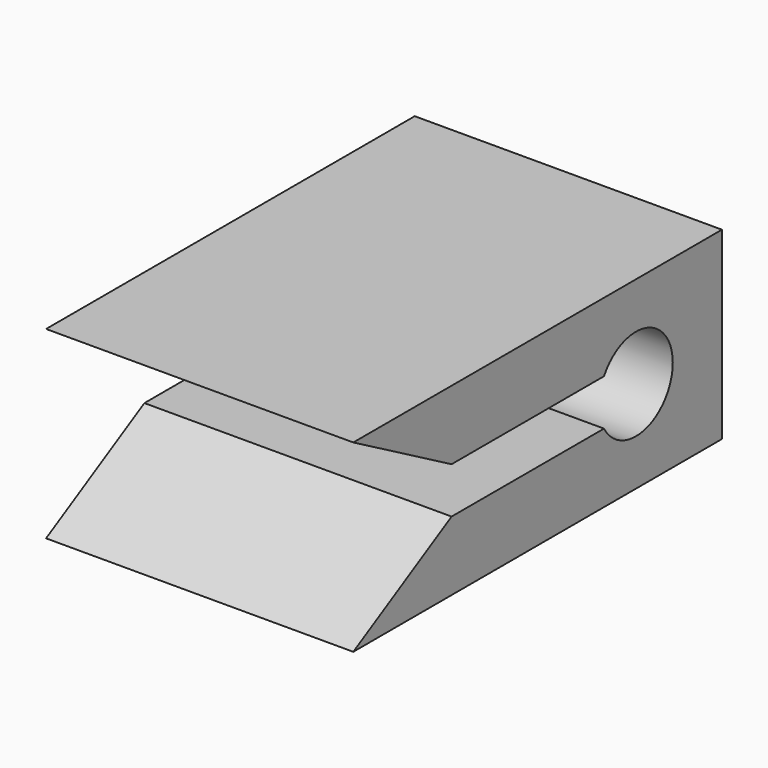
from build123d import *

# Parameters (mm, degrees)
PAD_DEPTH = 5


with BuildPart() as part:
    # Sketch → Pad (new body, symmetric)
    with BuildSketch(Plane.YZ):
        with BuildLine():
            ThreePointArc((-1.299038, -0.75), (1.5, 0), (-1.299038, 0.75))
            Line((-1.299038, 0.75), (-7.5, 0.75))
            Line((-7.5, 0.75), (-11.5, 3))
            Line((-11.5, 3), (3.5, 3))
            Line((3.5, -3), (3.5, 3))
            Line((-11.5, -3), (3.5, -3))
            Line((-7.5, -0.75), (-11.5, -3))
            Line((-1.299038, -0.75), (-7.5, -0.75))
        make_face()
    extrude(amount=PAD_DEPTH, both=True)


solid = part.part
